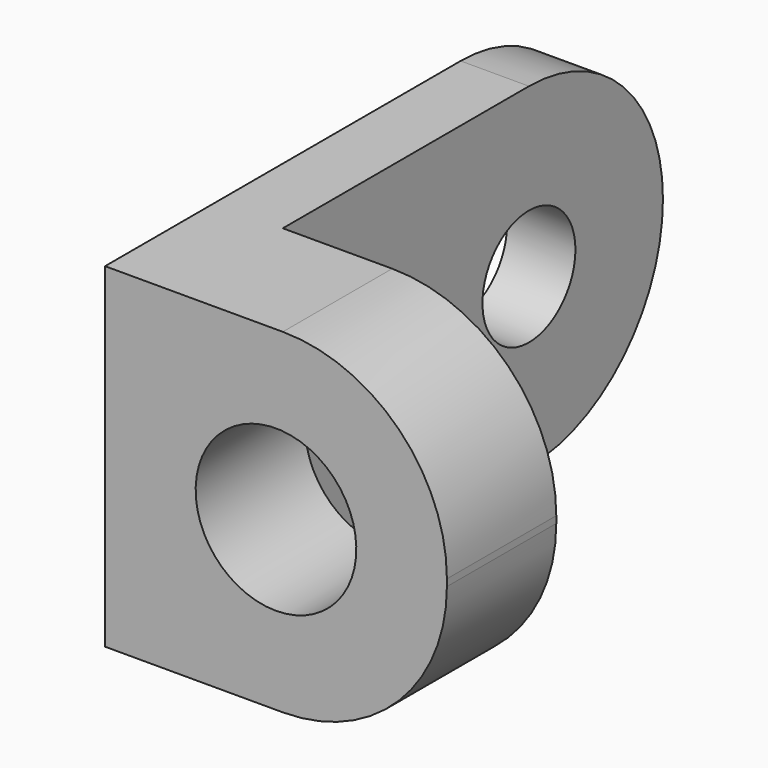
from build123d import *

# Parameters (mm, degrees)
SKETCH004_R     = 1.7
PAD002_DEPTH    = 2
SKETCH005_W     = 4
SKETCH005_H     = 8
PAD003_DEPTH    = 9.8
SKETCH006_R     = 2.35
POCKET001_DEPTH = 5
FILLET001_R     = 4.8


with BuildPart() as part:
    # Sketch004 (on DatumPlane) → Pad002 (new body)
    with BuildSketch(Plane.YZ.offset(2)):
        with BuildLine():
            ThreePointArc((-7, -9.9), (-2.1, -5), (-7, -0.1))
            Line((-7, -0.1), (-20, -0.1))
            Line((-20, -0.1), (-20, -9.9))
            Line((-20, -9.9), (-7, -9.9))
        make_face()
        with Locations((-7, -5)):
            Circle(SKETCH004_R, mode=Mode.SUBTRACT)
    extrude(amount=PAD002_DEPTH)

    # Sketch005 (on Face4 of Pad002) → Pad003 (join)
    with BuildSketch(Plane(origin=(2, 0, -9.9), x_dir=(0, 1, 0), z_dir=(0, 0, -1))):
        with Locations((-18, 6)):
            Rectangle(SKETCH005_W, SKETCH005_H)
    extrude(amount=-PAD003_DEPTH)

    # Sketch006 (on Face9 of Pad003) → Pocket001 (cut)
    with BuildSketch(Plane(origin=(2, -20, 0), x_dir=(0, 0, -1), z_dir=(0, -1, 0))):
        with Locations((5, 5)):
            Circle(SKETCH006_R)
    extrude(amount=-POCKET001_DEPTH, mode=Mode.SUBTRACT)

    # Fillet001
    fillet001_edges = [part.edges().sort_by_distance(p)[0] for p in [
        (12, -18, -0.1),
        (12, -18, -9.9),
    ]]
    fillet(fillet001_edges, radius=FILLET001_R)


solid = part.part
